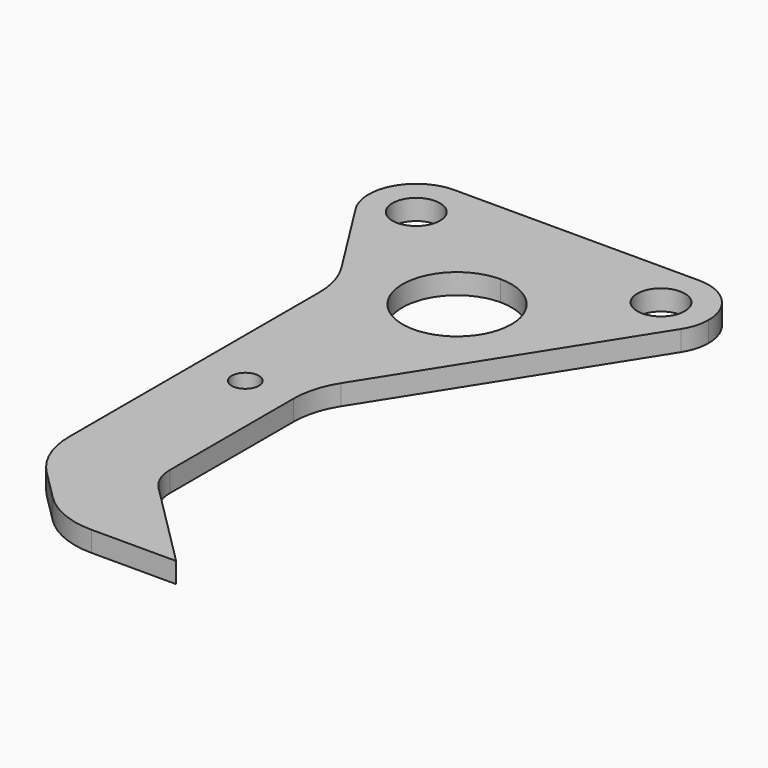
from build123d import *

# Parameters (mm, degrees)
F0_R     = 22.225
F0_R_2   = 12.7
F1_DEPTH = 19.05


with BuildPart() as f1:
    # F0 (on Top) → F1 (new body)
    with BuildSketch(Plane.XY):
        with BuildLine():
            Line((273.0500235857, 0), (44.4500235857, 0))
            ThreePointArc((44.4500235857, 0), (88.9000235857, -44.45), (44.4500235857, -88.9))
            Line((44.4500235857, -88.9), (84.2706601958, -88.9))
            ThreePointArc((84.2706601958, -88.9), (158.7500235857, -49.5456014885), (233.2293869757, -88.9))
            Line((233.2293869757, -88.9), (273.0500235857, -88.9))
            ThreePointArc((273.0500235857, -88.9), (228.6000235857, -44.45), (273.0500235857, 0))
        make_face()
        with BuildLine():
            ThreePointArc((44.4500235857, -88.9), (88.9000235857, -44.45), (44.4500235857, 0))
            ThreePointArc((44.4500235857, 0), (13.0236176108, -13.0146137689), (2.54e-05, -44.4373))
            Line((2.54e-05, -44.4373), (2.54e-05, -44.4627))
            ThreePointArc((2.54e-05, -44.4627), (1.7564529904, -56.8218038225), (6.8801428486, -68.2051375791))
            ThreePointArc((6.8801428486, -68.2051375791), (23.0037344591, -83.3840363011), (44.4500235857, -88.9))
        make_face()
        with Locations((44.4500235857, -44.45)):
            Circle(F0_R, mode=Mode.SUBTRACT)
        with BuildLine():
            ThreePointArc((317.5000235855, -44.449873), (304.4808751081, -13.019058675), (273.0500235857, 0))
            ThreePointArc((273.0500235857, 0), (228.6000235857, -44.45), (273.0500235857, -88.9))
            ThreePointArc((273.0500235857, -88.9), (294.4963127124, -83.3840363011), (310.6199043228, -68.2051375791))
            ThreePointArc((310.6199043228, -68.2051375791), (315.7453434806, -56.8157656081), (317.5000235855, -44.450127))
            Line((317.5000235855, -44.450127), (317.5000235855, -44.449873))
        make_face()
        with Locations((273.0500235857, -44.45)):
            Circle(F0_R, mode=Mode.SUBTRACT)
        with BuildLine():
            Line((84.2706601958, -88.9), (44.4500235857, -88.9))
            ThreePointArc((44.4500235857, -88.9), (23.0037344591, -83.3840363011), (6.8801428486, -68.2051375791))
            Line((6.8801428486, -68.2051375791), (56.8011349092, -147.1575625754))
            ThreePointArc((56.8011349092, -147.1575625754), (65.5876323203, -166.6823048), (68.5956250742, -187.8806555681))
            Line((68.5956250742, -187.8806555681), (68.5956250742, -479.9138355742))
            ThreePointArc((68.5956250742, -479.9138355742), (74.3960046968, -509.0743131204), (90.9140883478, -533.7953723006))
            Line((90.9140883478, -533.7953723006), (119.0002527736, -561.8815367264))
            ThreePointArc((119.0002527736, -561.8815367264), (143.7213119538, -578.3996203774), (172.8817895, -584.2))
            Line((172.8817895, -584.2), (252.0789948661, -584.2))
            Line((252.0789948661, -584.2), (170.1112937139, -502.2322988478))
            ThreePointArc((170.1112937139, -502.2322988478), (161.7027214902, -489.647981202), (158.7500235857, -474.8037664186))
            Line((158.7500235857, -474.8037664186), (158.7500235857, -330.4641278263))
            ThreePointArc((158.7500235857, -330.4641278263), (161.7580163396, -309.2657770582), (170.5445137507, -289.7410348335))
            Line((170.5445137507, -289.7410348335), (234.9500235857, -187.8806555681))
            ThreePointArc((234.9500235857, -187.8806555681), (109.2522186671, -215.0510642208), (84.2706601958, -88.9))
        make_face()
        with Locations((113.67282433, -330.4641278263)):
            Circle(F0_R_2, mode=Mode.SUBTRACT)
        with BuildLine():
            ThreePointArc((310.6199043228, -68.2051375791), (294.4963127124, -83.3840363011), (273.0500235857, -88.9))
            Line((273.0500235857, -88.9), (233.2293869757, -88.9))
            ThreePointArc((233.2293869757, -88.9), (244.8965783018, -113.1183017564), (248.9044220972, -139.7))
            ThreePointArc((248.9044220972, -139.7), (245.3455798734, -164.7803748417), (234.9500235857, -187.8806555681))
            Line((234.9500235857, -187.8806555681), (310.6199043228, -68.2051375791))
        make_face()
        with BuildLine():
            Line((158.7500235857, -88.9), (84.2706601958, -88.9))
            ThreePointArc((84.2706601958, -88.9), (109.2522186671, -215.0510642208), (234.9500235857, -187.8806555681))
            ThreePointArc((234.9500235857, -187.8806555681), (245.3455798734, -164.7803748417), (248.9044220972, -139.7))
            ThreePointArc((248.9044220972, -139.7), (244.8965783018, -113.1183017564), (233.2293869757, -88.9))
            Line((233.2293869757, -88.9), (158.7500235857, -88.9))
        make_face()
        with BuildLine():
            ThreePointArc((209.5500235857, -139.7), (122.8289991014, -175.6210244843), (158.7500235857, -88.9))
            ThreePointArc((158.7500235857, -88.9), (194.67104807, -103.7789755157), (209.5500235857, -139.7))
        make_face(mode=Mode.SUBTRACT)
        with BuildLine():
            ThreePointArc((233.2293869757, -88.9), (158.7500235857, -49.5456014885), (84.2706601958, -88.9))
            Line((84.2706601958, -88.9), (158.7500235857, -88.9))
            Line((158.7500235857, -88.9), (233.2293869757, -88.9))
        make_face()
    extrude(amount=F1_DEPTH)


solid = f1.part
